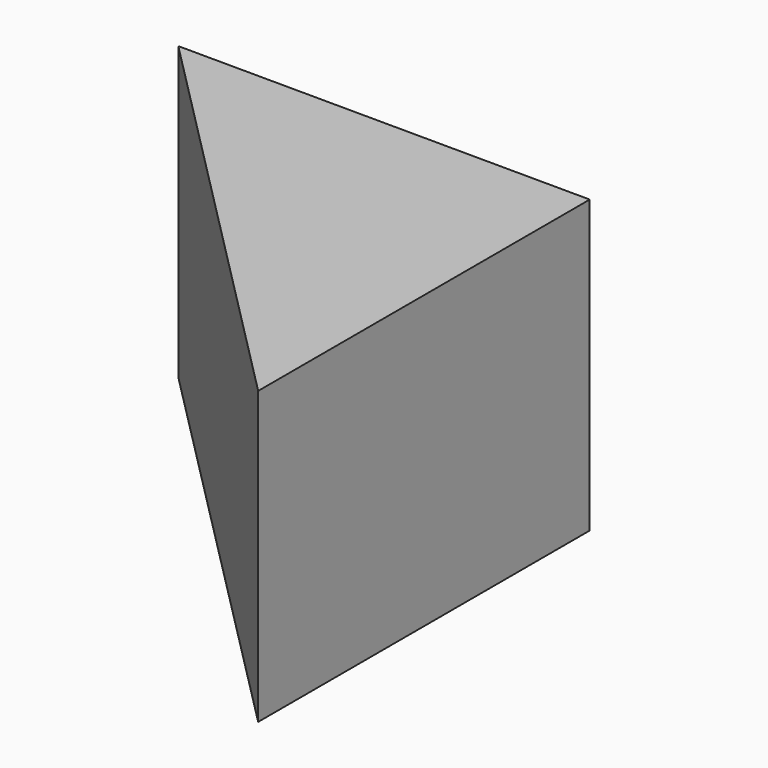
from build123d import *

# Parameters (mm, degrees)
F1_DEPTH = 25
F2_DEPTH = 25


with BuildPart() as f1:
    # F0 (on Top) → F1 (new body)
    with BuildSketch(Plane.XY):
        Polygon((-70.860736, 71.438074), (0, 0), (0, 71.108826), align=None)
    extrude(amount=F1_DEPTH)

    # F1_face (on face) → F2 (join)
    with BuildSketch(Plane(origin=(-23.620245, 47.515633, 25), x_dir=(1, 0, 0), z_dir=(0, 0, 1))):
        Polygon((23.620245, 23.593192), (-47.240491, 23.922441), (23.620245, -47.515633), align=None)
    extrude(amount=F2_DEPTH)


solid = f1.part
